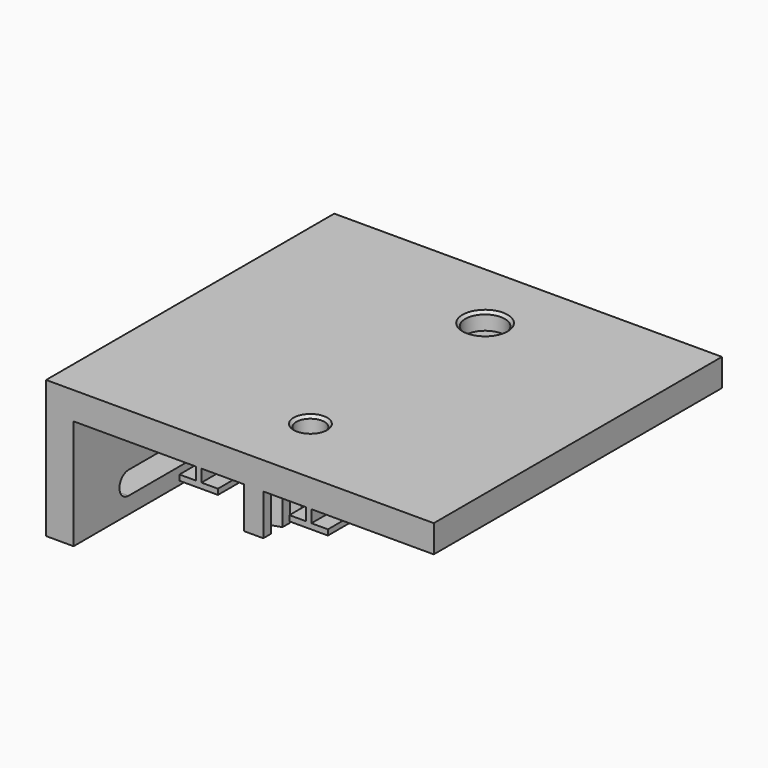
from build123d import *

# Parameters (mm, degrees)
SKETCH_W            = 65.5
SKETCH_H            = 65.5
PAD_DEPTH           = 5
PAD001_DEPTH        = 65.5
SKETCH002_W         = 3.5
SKETCH002_H         = 8
PAD002_DEPTH        = 65.5
POCKET_DEPTH        = 7
LINEARPATTERN_COUNT = 16
LINEARPATTERN_PITCH = 4.366667
SKETCH005_W         = 65.5
SKETCH005_H         = 25
PAD003_DEPTH        = 5
POCKET001_DEPTH     = 5
SKETCH007_R         = 3.6
SKETCH007_R_2       = 2.55
POCKET002_DEPTH     = 3.1
CHAMFER_SIZE        = 0.5


with BuildPart() as part:
    # Sketch → Pad (new body)
    with BuildSketch(Plane.XY):
        Rectangle(SKETCH_W, SKETCH_H)
    extrude(amount=PAD_DEPTH)

    # Sketch001 (on Face3 of Pad) → Pad001 (join)
    with BuildSketch(Plane.XZ.offset(32.75)):
        Polygon((-10.5, 0.5), (-10.5, -2.25), (-13.5, -2.25), (-13.5, -3.25), (-6.5, -3.25), (-6.5, -2.25), (-9.5, -2.25), (-9.5, 0.5), align=None)
        Polygon((9.5, 0.5), (10.5, 0.5), (10.5, -2.25), (13.5, -2.25), (13.5, -3.25), (6.5, -3.25), (6.5, -2.25), (9.5, -2.25), align=None)
    extrude(amount=-PAD001_DEPTH)

    # Sketch002 (on Face1 of Pad001) → Pad002 (join)
    with BuildSketch(Plane(origin=(0, 32.75, 0), x_dir=(-1, 0, 0), z_dir=(0, 1, 0))):
        with Locations((0, -3.5)):
            Rectangle(SKETCH002_W, SKETCH002_H)
    extrude(amount=-PAD002_DEPTH)

    # Sketch003 (on Face32 of Pad002) → Pocket (cut)
    with BuildSketch(Plane(origin=(0, 0, -7.5), x_dir=(1, 0, 0), z_dir=(0, 0, -1))):
        Polygon((1.75, -32.75), (-0.98, -31.795), (-0.98, -31.095), (1.75, -30.14), align=None)
    pocket = extrude(amount=-POCKET_DEPTH, mode=Mode.SUBTRACT)

    # LinearPattern: Pocket ×16
    with Locations(*[(0, -i * LINEARPATTERN_PITCH, 0) for i in range(1, LINEARPATTERN_COUNT)]):
        add(pocket, mode=Mode.SUBTRACT)

    # Sketch005 (on Face11 of LinearPattern) → Pad003 (join)
    with BuildSketch(Plane(origin=(-32.75, 0, 0), x_dir=(0, -1, 0), z_dir=(-1, 0, 0))):
        with Locations((0, -7.5)):
            Rectangle(SKETCH005_W, SKETCH005_H)
    extrude(amount=PAD003_DEPTH)

    # Sketch006 (on Face25 of Pad003) → Pocket001 (cut)
    with BuildSketch(Plane(origin=(-37.75, 0, 0), x_dir=(0, -1, 0), z_dir=(-1, 0, 0))):
        with BuildLine():
            ThreePointArc((-20.25, -12.85), (-22.325, -14.925), (-20.25, -17))
            Line((-20.25, -17), (20.25, -17))
            ThreePointArc((20.25, -17), (22.325, -14.925), (20.25, -12.85))
            Line((20.25, -12.85), (-20.25, -12.85))
        make_face()
    extrude(amount=-POCKET001_DEPTH, mode=Mode.SUBTRACT)

    # Sketch007 (on Face10 of Pocket001) → Pocket002 (cut)
    with BuildSketch(Plane.XY.offset(5)):
        with Locations((0, 19.85)):
            Circle(SKETCH007_R)
        with Locations((0, -19.85)):
            Circle(SKETCH007_R_2)
    extrude(amount=-POCKET002_DEPTH, mode=Mode.SUBTRACT)

    # Chamfer
    chamfer_edges = [part.edges().sort_by_distance(p)[0] for p in [
        (-2.55, -19.85, 5),
        (-3.6, 19.85, 5),
    ]]
    chamfer(chamfer_edges, length=CHAMFER_SIZE)


solid = part.part
